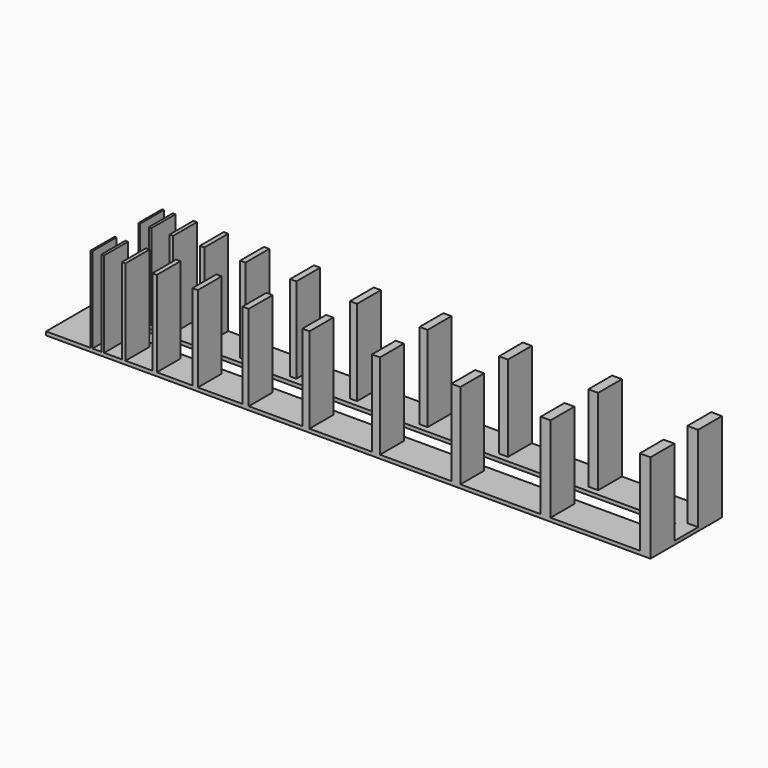
from build123d import *

# Parameters (mm, degrees)
F0_W     = 0.2
F0_H     = 10
F0_W_2   = 0.3
F0_W_3   = 0.4
F0_W_4   = 0.5
F0_W_5   = 0.6
F0_W_6   = 0.7
F0_W_7   = 0.8
F0_W_8   = 0.9
F0_W_9   = 1
F0_W_10  = 1.1
F0_W_11  = 1.2
F1_DEPTH = 10
F2_W     = 67.7
F2_H     = 3.33333
F3_DEPTH = 10.001
F4_W     = 67.7
F4_H     = 10
F4_W_2   = 63.7
F4_H_2   = 2
F5_DEPTH = 0.4


with BuildPart() as f1:
    # F0 (on Top) → F1 (new body)
    with BuildSketch(Plane.XY):
        with Locations((5.1, 0)):
            Rectangle(F0_W, F0_H)
        with Locations((6.35, 0)):
            Rectangle(F0_W_2, F0_H)
        with Locations((8.7, 0)):
            Rectangle(F0_W_3, F0_H)
        with Locations((12.15, 0)):
            Rectangle(F0_W_4, F0_H)
        with Locations((16.7, 0)):
            Rectangle(F0_W_5, F0_H)
        with Locations((22.35, 0)):
            Rectangle(F0_W_6, F0_H)
        with Locations((29.1, 0)):
            Rectangle(F0_W_7, F0_H)
        with Locations((36.95, 0)):
            Rectangle(F0_W_8, F0_H)
        with Locations((45.9, 0)):
            Rectangle(F0_W_9, F0_H)
        with Locations((55.95, 0)):
            Rectangle(F0_W_10, F0_H)
        with Locations((67.1, 0)):
            Rectangle(F0_W_11, F0_H)
    extrude(amount=F1_DEPTH)

    # F2 (on Top) → F3 (cut, through all)
    with BuildSketch(Plane.XY):
        with Locations((33.85, 0)):
            Rectangle(F2_W, F2_H)
    extrude(amount=F3_DEPTH, mode=Mode.SUBTRACT)

    # F4 (on Top) → F5 (join)
    with BuildSketch(Plane.XY):
        with Locations((33.85, 0)):
            Rectangle(F4_W, F4_H)
        with Locations((33.85, 0)):
            Rectangle(F4_W_2, F4_H_2, mode=Mode.SUBTRACT)
    extrude(amount=F5_DEPTH)


solid = f1.part
